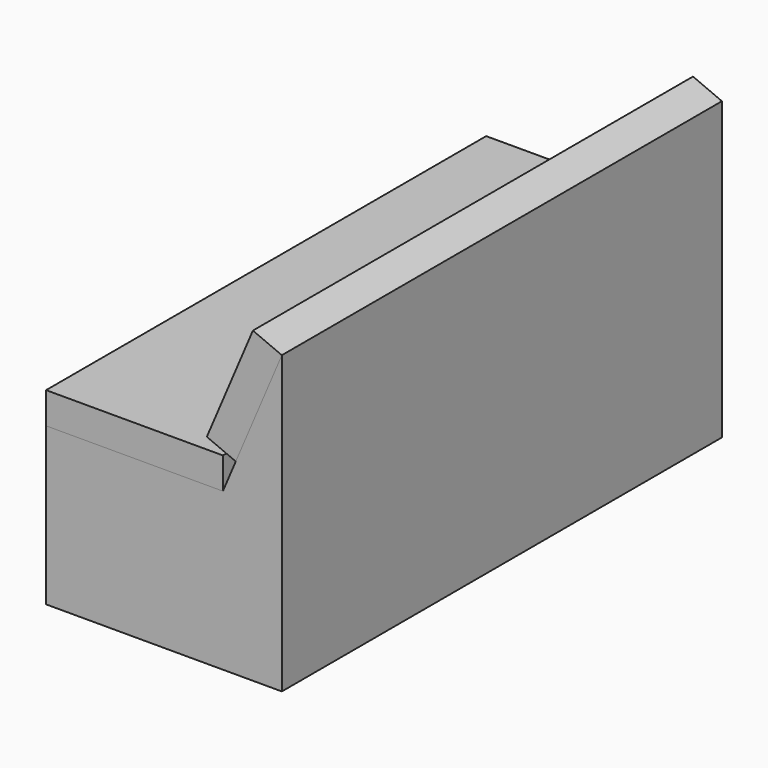
from build123d import *

# Parameters (mm, degrees)
F1_DEPTH = 1400
F2_W     = 450
F2_H     = 80
F3_DEPTH = 1400


with BuildPart() as f1:
    # F0 (on Front) → F1 (new body)
    with BuildSketch(Plane.XZ):
        Polygon((0, 400), (0, 0), (600, 0), (600, 400), (450, 400), align=None)
        Polygon((450, 400), (600, 400), (600, 753.3778548736), (482.7806614532, 477.2263988378), align=None)
    extrude(amount=F1_DEPTH)


with BuildPart() as f3:
    # F2 (on face) → F3 (new body)
    with BuildSketch(Plane.XZ.offset(1400)):
        with Locations((225, 440)):
            Rectangle(F2_W, F2_H)
    extrude(amount=-F3_DEPTH)


with BuildPart() as f3b:
    # F2 (on face) → F3, piece 2 (new body)
    with BuildSketch(Plane.XZ.offset(1400)):
        Polygon((409.140273177, 508.484889117), (482.7806614532, 477.2263988378), (600, 753.3778548736), (526.3596117238, 784.6363451527), align=None)
    extrude(amount=-F3_DEPTH)


solid = Compound([f1.part, f3.part, f3b.part])
